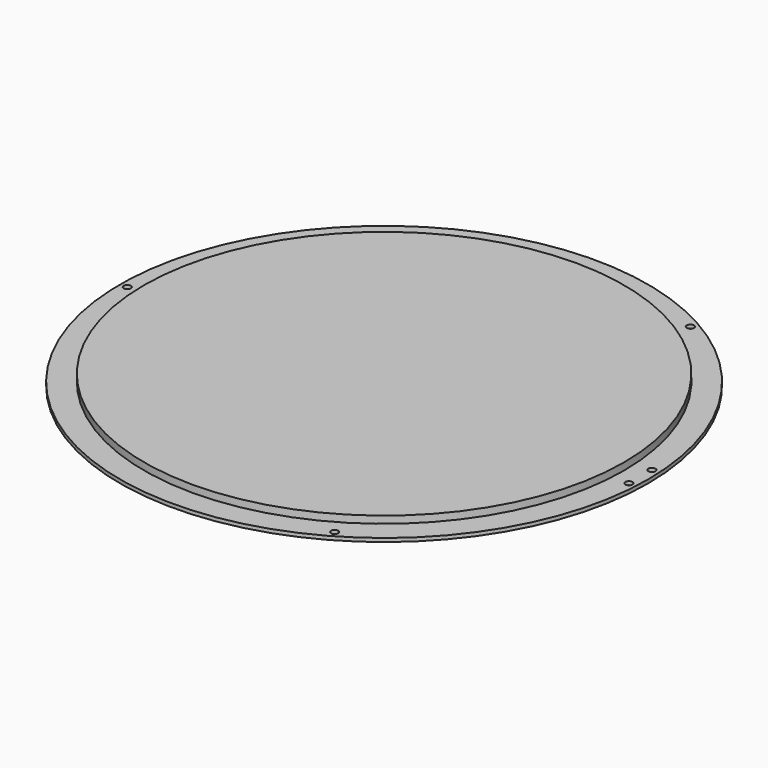
from build123d import *

# Parameters (mm, degrees)
F0_R     = 110
F1_DEPTH = 1.5
F2_D     = 3
F2_DEPTH = 10
F3_R     = 100
F4_DEPTH = 3


with BuildPart() as f1:
    # F0 (on Top) → F1 (new body)
    with BuildSketch(Plane.XY):
        Circle(F0_R)
    extrude(amount=F1_DEPTH)

    # F2
    with Locations(Plane(origin=(0, 0, 0), x_dir=(1, 0, 0), z_dir=(0, 0, -1))):
        with Locations((-107, 0), (53.5, 92.664718), (53.5, -92.664718), (106.831643, 6), (106.831643, -6)):
            Hole(F2_D / 2, depth=F2_DEPTH)


with BuildPart() as f4:
    # F3 (on face) → F4 (new body)
    with BuildSketch(Plane.XY.offset(1.5)):
        Circle(F3_R)
    extrude(amount=F4_DEPTH)


solid = Compound([f1.part, f4.part])
